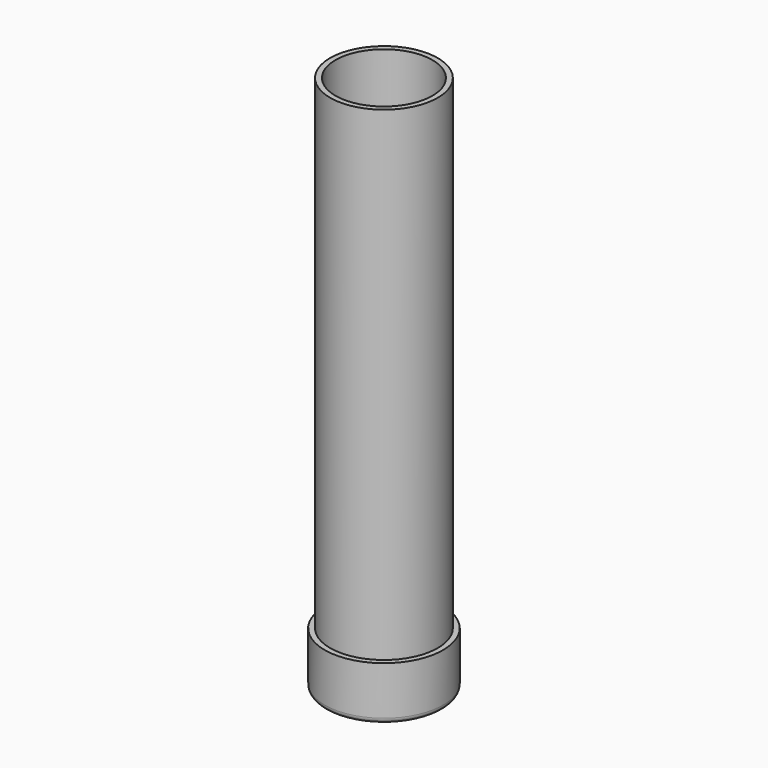
from build123d import *


with BuildPart() as f1:
    # F0 (on Front) → F1 (revolve)
    with BuildSketch(Plane.XZ):
        with BuildLine():
            ThreePointArc((-55, 5), (-53.535534, 1.464466), (-50, 0))
            Line((-50, 0), (-50, 50))
            Line((-50, 50), (-55, 50))
            Line((-55, 50), (-55, 5))
        make_face()
        Polygon((-50, 0), (0, 0), (0, 5), (-45, 5), (-45, 500), (-50, 500), (-50, 50), align=None)
    revolve(axis=Axis((0, 0, 252.5), (0, 0, -1)))


solid = f1.part
